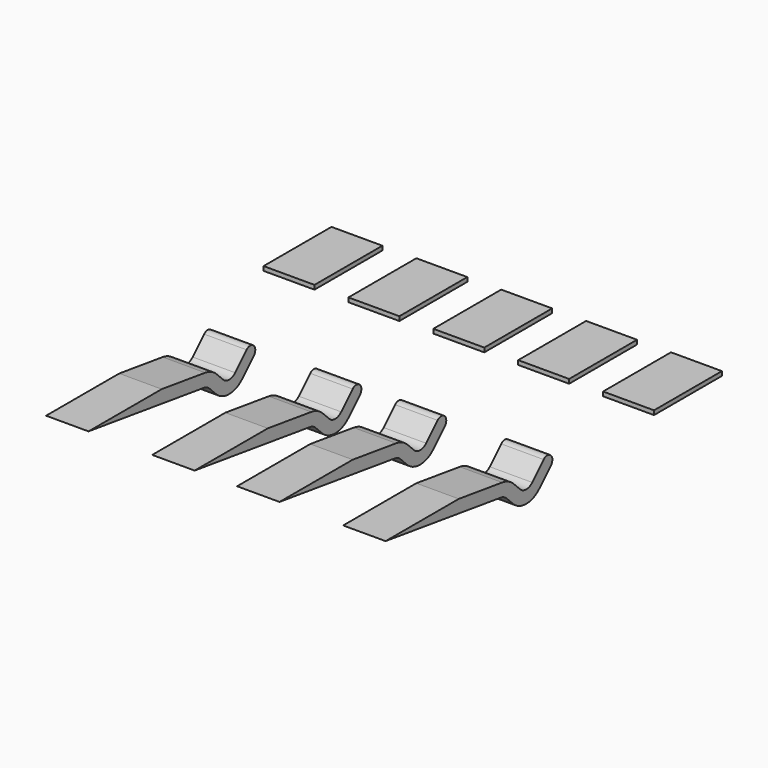
from build123d import *

# Parameters (mm, degrees)
EXTRUDE010_DEPTH = 1
BOX053_W         = 1.2
BOX053_H         = 2
BOX053_DEPTH     = 0.1
ARRAY015_X_COUNT = 5
ARRAY015_X_PITCH = 2


with BuildPart() as extrude017:
    # Sketch037 → Extrude010 (new body)
    with BuildSketch(Plane.YZ):
        with BuildLine():
            Line((1.279699, -0.17985), (0, 0))
            Line((0, 0), (-2.155589, 0))
            Line((-2.155589, 0), (1.237947, -0.47693))
            ThreePointArc((1.408328, -0.561879), (1.330055, -0.505531), (1.237947, -0.47693))
            Line((1.408328, -0.561879), (1.596448, -0.749999))
            ThreePointArc((1.596448, -0.749999), (1.985356, -0.91109), (2.374264, -0.75))
            Line((2.374264, -0.75), (2.712132, -0.412132))
            ThreePointArc((2.712132, -0.412132), (2.712132, -0.2), (2.5, -0.2))
            Line((2.162133, -0.537867), (2.5, -0.2))
            ThreePointArc((1.80858, -0.537867), (1.985356, -0.61109), (2.162133, -0.537867))
            Line((1.62046, -0.349747), (1.80858, -0.537867))
            ThreePointArc((1.62046, -0.349747), (1.463914, -0.23705), (1.279699, -0.17985))
        make_face()
    extrude(amount=EXTRUDE010_DEPTH)


with BuildPart() as extrude017_1:
    # Extrude010 placement: moved
    add(extrude017.part.moved(Location((-4, 0, 0))))


with BuildPart() as extrude010:
    # Clone021 base: copy of Extrude017
    add(extrude017_1.part)


with BuildPart() as extrude010_1:
    # Clone021 placement: moved
    add(extrude010.part.moved(Location((2.5, 0, 0))))


with BuildPart() as extrude011:
    # Clone022 base: copy of Extrude017
    add(extrude017_1.part)


with BuildPart() as extrude011_1:
    # Clone022 placement: moved
    add(extrude011.part.moved(Location((4.5, 0, 0))))


with BuildPart() as extrude012:
    # Clone023 base: copy of Extrude017
    add(extrude017_1.part)


with BuildPart() as extrude012_1:
    # Clone023 placement: moved
    add(extrude012.part.moved(Location((7, 0, 0))))


with BuildPart() as fusion040:
    # Fusion040 base: copy of Extrude017
    add(extrude017_1.part)

    # Fusion040: union Extrude010, Extrude011, Extrude012
    add(extrude010_1.part)
    add(extrude011_1.part)
    add(extrude012_1.part)


with BuildPart() as fusion040_1:
    # Fusion040 placement: moved
    add(fusion040.part.moved(Location((0, 10, 12.6))))


with BuildPart() as clone025:
    # Box053 → Box053 (new body)
    with BuildSketch(Plane(origin=(-4.6, 15, 12.5), x_dir=(1, 0, 0), z_dir=(0, 0, 1))):
        with Locations((0.6, 1)):
            Rectangle(BOX053_W, BOX053_H)
    extrude(amount=BOX053_DEPTH)

    # Array015 X: Clone025 ×5


with BuildPart() as clone025_1:
    add(clone025.part)
    with Locations(*[(i * ARRAY015_X_PITCH, 0, 0) for i in range(1, ARRAY015_X_COUNT)]):
        add(clone025.part)

    # Fusion041: union Fusion040
    add(fusion040_1.part)


with BuildPart() as clone025_2:
    # Clone025 placement: moved
    add(clone025_1.part.moved(Location((0, 0, -8.4))))


solid = clone025_2.part
